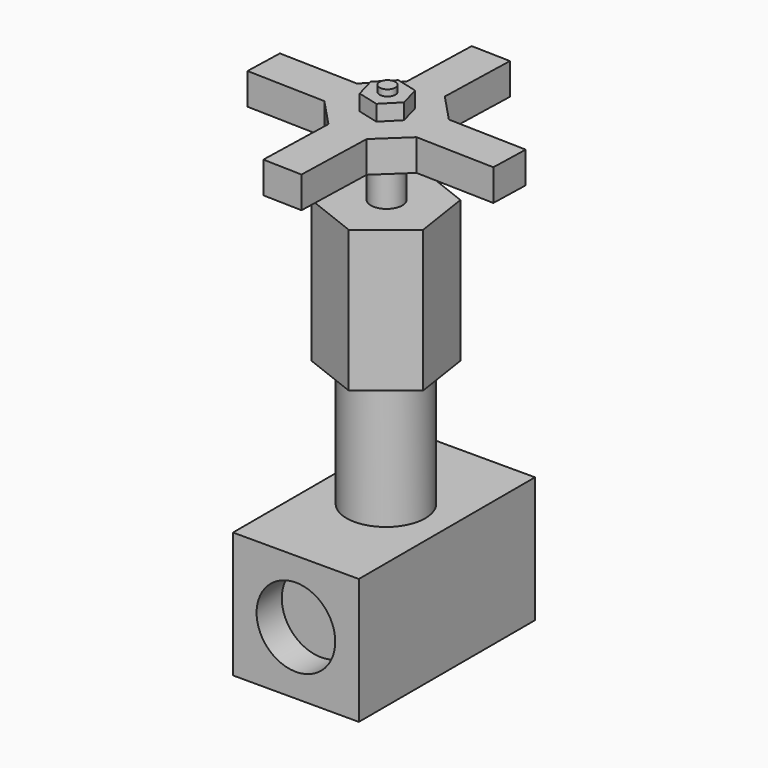
from build123d import *

# Parameters (mm, degrees)
F0_W      = 40
F0_H      = 40
F1_DEPTH  = 70
F2_R      = 12.5
F3_DEPTH  = 10
F4_R      = 12.5
F5_DEPTH  = 10
F6_R      = 12.5
F7_DEPTH  = 40
F9_DEPTH  = 45
F10_R     = 5
F11_DEPTH = 15
F13_DEPTH = 10
F14_W     = 12.4264068712
F14_H     = 10
F15_DEPTH = 25
F16_W     = 12.4264068712
F16_H     = 10
F17_DEPTH = 25
F18_W     = 12.4264068712
F18_H     = 10
F19_DEPTH = 25
F20_W     = 12.4264068712
F20_H     = 10
F21_DEPTH = 25
F23_DEPTH = 5
F24_R     = 2.5
F25_DEPTH = 2


with BuildPart() as f1:
    # F0 (on Front) → F1 (new body)
    with BuildSketch(Plane.XZ):
        Rectangle(F0_W, F0_H)
    extrude(amount=F1_DEPTH)

    # F2 (on Front) → F3 (cut, symmetric)
    with BuildSketch(Plane.XZ):
        Circle(F2_R)
    extrude(amount=F3_DEPTH, both=True, mode=Mode.SUBTRACT)

    # F4 (on face) → F5 (cut, symmetric)
    with BuildSketch(Plane.XZ.offset(70)):
        Circle(F4_R)
    extrude(amount=F5_DEPTH, both=True, mode=Mode.SUBTRACT)

    # F6 (on face) → F7 (join)
    with BuildSketch(Plane.XY.offset(20)):
        with Locations((0, -34.2291915306)):
            Circle(F6_R)
    extrude(amount=F7_DEPTH)

    # F8 (on face) → F9 (join)
    with BuildSketch(Plane.XY.offset(60)):
        Polygon((-2.7817631709, -15.9646048395), (-17.2084776495, -27.5059757583), (-14.4267144786, -45.7705624494), (2.7817631709, -52.4937782216), (17.2084776495, -40.9524073028), (14.4267144786, -22.6878206118), align=None)
    extrude(amount=F9_DEPTH)

    # F10 (on face) → F11 (join)
    with BuildSketch(Plane.XY.offset(105)):
        with Locations((0, -33.963235583)):
            Circle(F10_R)
    extrude(amount=F11_DEPTH)

    # F12 (on face) → F13 (join)
    with BuildSketch(Plane.XY.offset(120)):
        Polygon((15.1713289677, -28.1809631677), (6.6390655572, -19.1468019547), (-5.7822724153, -18.7919066152), (-14.8164336282, -27.3241700258), (-15.1713289677, -39.7455079982), (-6.6390655572, -48.7796692112), (5.7822724153, -49.1345645507), (14.8164336282, -40.6023011401), align=None)
    extrude(amount=F13_DEPTH)

    # F14 (on face) → F15 (join)
    with BuildSketch(Plane(origin=(-1.3979831463, -48.9294144098, 0), x_dir=(0.9995920865, -0.0285597714, 0), z_dir=(-0.0285597714, -0.9995920865, 0))):
        with Locations((0.9699822441, 125)):
            Rectangle(F14_W, F14_H)
    extrude(amount=F15_DEPTH)

    # F16 (on face) → F17 (join)
    with BuildSketch(Plane(origin=(15.9634678733, -0.4560990421, 0), x_dir=(0.0285597714, 0.9995920865, 0), z_dir=(0.9995920865, -0.0285597714, 0))):
        with Locations((-33.9493815218, 125)):
            Rectangle(F16_W, F16_H)
    extrude(amount=F17_DEPTH)

    # F18 (on face) → F19 (join)
    with BuildSketch(Plane(origin=(-14.0242947227, 0.4006940998, 0), x_dir=(-0.0285597714, -0.9995920865, 0), z_dir=(-0.9995920865, 0.0285597714, 0))):
        with Locations((33.9493815218, 125)):
            Rectangle(F18_W, F18_H)
    extrude(amount=F19_DEPTH)

    # F20 (on face) → F21 (join)
    with BuildSketch(Plane(origin=(-0.5411900044, -18.9416518138, 0), x_dir=(-0.9995920865, 0.0285597714, 0), z_dir=(0.0285597714, 0.9995920865, 0))):
        with Locations((-0.9699822441, 125)):
            Rectangle(F20_W, F20_H)
    extrude(amount=F21_DEPTH)

    # F22 (on face) → F23 (join)
    with BuildSketch(Plane.XY.offset(130)):
        Polygon((-1.8446433706, -26.9791675509), (-6.7057435207, -31.9157357243), (-4.8611001501, -38.5938560313), (1.8446433706, -40.335408165), (6.7057435207, -35.3988399916), (4.8611001501, -28.7207196846), align=None)
    extrude(amount=F23_DEPTH)

    # F24 (on face) → F25 (join)
    with BuildSketch(Plane.XY.offset(135)):
        with Locations((0, -33.5882875384)):
            Circle(F24_R)
    extrude(amount=F25_DEPTH)


solid = f1.part
